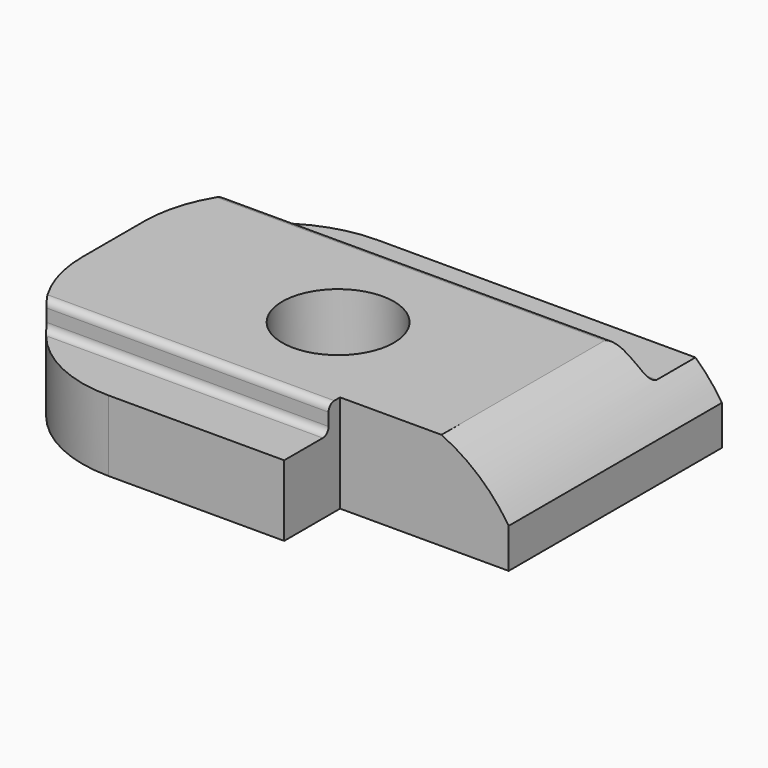
from build123d import *

# Parameters (mm, degrees)
F0_R     = 1.9685
F1_DEPTH = 3.4544
F2_W     = 1.9558
F2_H     = 0.9525
F3_DEPTH = 16.7142
F4_R     = 4.572
F6_DEPTH = 9.399
F7_R     = 0.254
F8_SIZE2 = 0.5719231767
F8_SIZE  = 0.3302


with BuildPart() as f1:
    # F0 (on Top) → F1 (new body)
    with BuildSketch(Plane.XY):
        Polygon((-7.9248, 5.9309), (-7.9248, -5.9309), (2.8448, -5.9309), (2.8448, -3.4671), (8.7884, -3.4671), (8.7884, 5.9309), align=None)
        Circle(F0_R, mode=Mode.SUBTRACT)
    extrude(amount=-F1_DEPTH)

    # F2 (on face) → F3 (cut, through all)
    with BuildSketch(Plane(origin=(-7.9248, 0, 0), x_dir=(0, -1, 0), z_dir=(-1, 0, 0))):
        with Locations((-4.953, -0.47625)):
            Rectangle(F2_W, F2_H)
        with Locations((4.953, -0.47625)):
            Rectangle(F2_W, F2_H)
    extrude(amount=-F3_DEPTH, mode=Mode.SUBTRACT)

    # F4
    f4_edges = [f1.edges().sort_by_distance(p)[0] for p in [
        (-7.9248, -5.9309, -2.20345),
        (-7.9248, 5.9309, -2.20345),
    ]]
    fillet(f4_edges, radius=F4_R)

    # F5 (on face) → F6 (cut, through all)
    with BuildSketch(Plane.XZ.offset(3.4671)):
        with BuildLine():
            ThreePointArc((6.417348453, 0), (7.7501634134, -0.858086307), (8.7884, -2.0559062515))
            Line((8.7884, -2.0559062515), (8.7884, 0))
            Line((8.7884, 0), (6.417348453, 0))
        make_face()
    extrude(amount=-F6_DEPTH, mode=Mode.SUBTRACT)

    # F7
    f7_edges = [f1.edges().sort_by_distance(p)[0] for p in [
        (-2.128745, -3.9751, 0),
        (-0.342471, 3.9751, 0),
        (-2.128745, -3.9751, -0.9525),
        (0.377001, 3.9751, -0.9525),
    ]]
    fillet(f7_edges, radius=F7_R)

    # F8
    f8_edges = [f1.edges().sort_by_distance(p)[0] for p in [
        (-1.9685, 0, -3.4544),
    ]]
    f8_side = f1.faces().sort_by_distance((2.7178, 5.725953, -3.4544))[0]
    chamfer(f8_edges, length=F8_SIZE, length2=F8_SIZE2, reference=f8_side)


solid = f1.part
